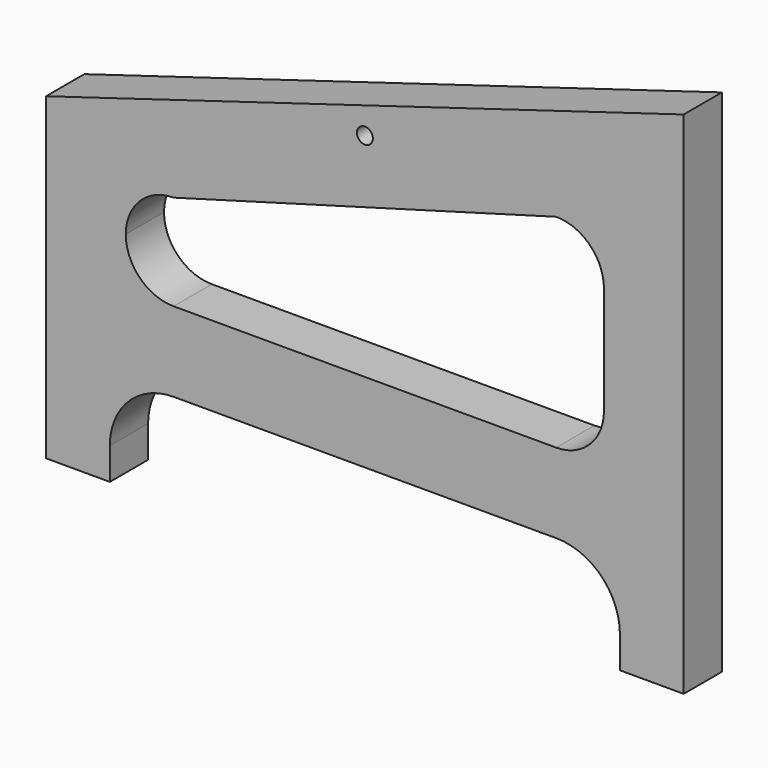
from build123d import *

# Parameters (mm, degrees)
F0_R     = 3.175
F1_DEPTH = 19.05


with BuildPart() as f1:
    # F0 (on Front) → F1 (new body)
    with BuildSketch(Plane.XZ):
        with BuildLine():
            Line((0, 127), (0, 0))
            Line((0, 0), (25.4, 0))
            Line((25.4, 0), (25.4, 12.7))
            ThreePointArc((25.4, 12.7), (32.839488, 30.660512), (50.8, 38.1))
            Line((50.8, 38.1), (203.2, 38.1))
            ThreePointArc((203.2, 38.1), (221.160512, 30.660512), (228.6, 12.7))
            Line((228.6, 12.7), (228.6, 0))
            Line((228.6, 0), (254, 0))
            Line((254, 0), (254, 203.2))
            Line((254, 203.2), (0, 127))
        make_face()
        with BuildLine():
            ThreePointArc((222.25, 88.9), (216.670384, 75.429616), (203.2, 69.85))
            Line((203.2, 69.85), (50.8, 69.85))
            ThreePointArc((50.8, 69.85), (37.329616, 75.429616), (31.75, 88.9))
            ThreePointArc((31.75, 88.9), (37.329616, 102.370384), (50.8, 107.95))
            Line((50.8, 107.95), (203.2, 150.7998))
            ThreePointArc((203.2, 150.7998), (216.670384, 145.220184), (222.25, 131.7498))
            Line((222.25, 131.7498), (222.25, 88.9))
        make_face(mode=Mode.SUBTRACT)
        with Locations((127, 154.492649)):
            Circle(F0_R, mode=Mode.SUBTRACT)
    extrude(amount=F1_DEPTH)


solid = f1.part
